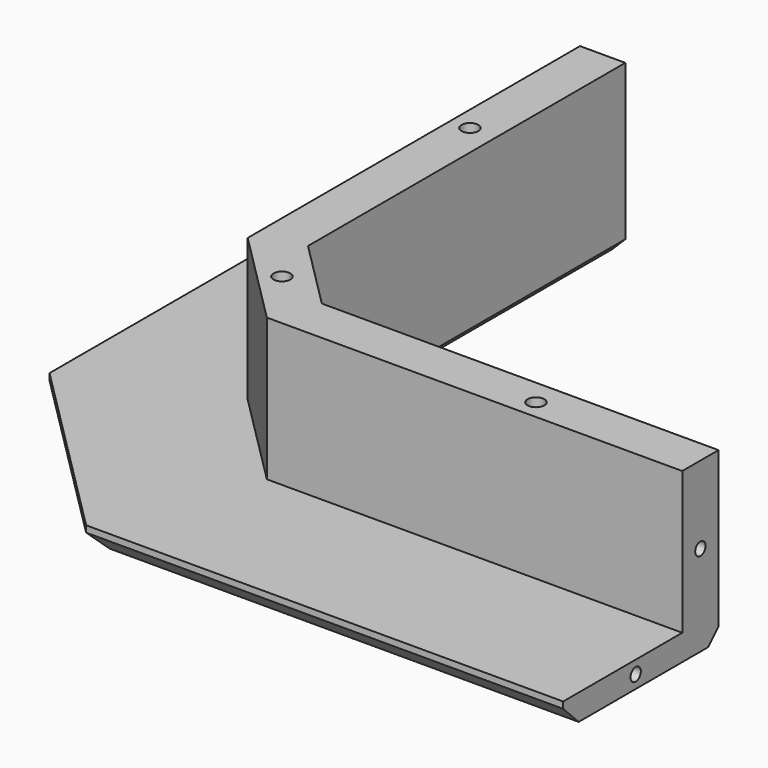
from build123d import *

# Parameters (mm, degrees)
PAD_DEPTH       = 4
PAD001_DEPTH    = 22
CHAMFER_SIZE    = 3
CHAMFER001_SIZE = 2
SKETCH002_R     = 1.3
POCKET_DEPTH    = 15
SKETCH003_R     = 1
POCKET001_DEPTH = 15
SKETCH004_R     = 1
POCKET002_DEPTH = 15


with BuildPart() as part:
    # Sketch → Pad (new body)
    with BuildSketch(Plane.XY):
        Polygon((0, 0), (-73.715729, 0), (-102, 28.284271), (-102, 102), (-72, 102), (-72, 40.710678), (-61.289322, 30), (0, 30), align=None)
    extrude(amount=PAD_DEPTH)

    # Sketch001 (on Face10 of Pad) → Pad001 (join)
    with BuildSketch(Plane.XY.offset(4)):
        Polygon((0, 30), (-61.289322, 30), (-72, 40.710678), (-72, 102), (-79, 102), (-79, 37.811183), (-64.188817, 23), (0, 23), align=None)
    extrude(amount=PAD001_DEPTH)

    # Chamfer
    chamfer_edges = [part.edges().sort_by_distance(p)[0] for p in [
        (-102, 65.142136, 0),
        (-87.857864, 14.142136, 0),
        (-36.857864, 0, 0),
    ]]
    chamfer(chamfer_edges, length=CHAMFER_SIZE)

    # Chamfer001
    chamfer001_edges = [part.edges().sort_by_distance(p)[0] for p in [
        (-72, 71.355339, 0),
        (-66.644661, 35.355339, 0),
        (-30.644661, 30, 0),
    ]]
    chamfer(chamfer001_edges, length=CHAMFER001_SIZE)

    # Sketch002 (on Face18 of Chamfer001) → Pocket (cut)
    with BuildSketch(Plane.XY.offset(26)):
        with Locations((-76, 77)):
            Circle(SKETCH002_R)
        with Locations((-69.473088, 32.526912)):
            Circle(SKETCH002_R)
        with Locations((-25, 26)):
            Circle(SKETCH002_R)
    extrude(amount=-POCKET_DEPTH, mode=Mode.SUBTRACT)

    # Sketch003 (on Face7 of Pocket) → Pocket001 (cut)
    with BuildSketch(Plane.YZ):
        with Locations((26.5, 14)):
            Circle(SKETCH003_R)
        with Locations((14, 2)):
            Circle(SKETCH003_R)
    extrude(amount=-POCKET001_DEPTH, mode=Mode.SUBTRACT)

    # Sketch004 (on Face26 of Pocket001) → Pocket002 (cut)
    with BuildSketch(Plane(origin=(0, 102, 0), x_dir=(-1, 0, 0), z_dir=(0, 1, 0))):
        with Locations((75.5, 14)):
            Circle(SKETCH004_R)
        with Locations((88, 2)):
            Circle(SKETCH004_R)
    extrude(amount=-POCKET002_DEPTH, mode=Mode.SUBTRACT)


solid = part.part
